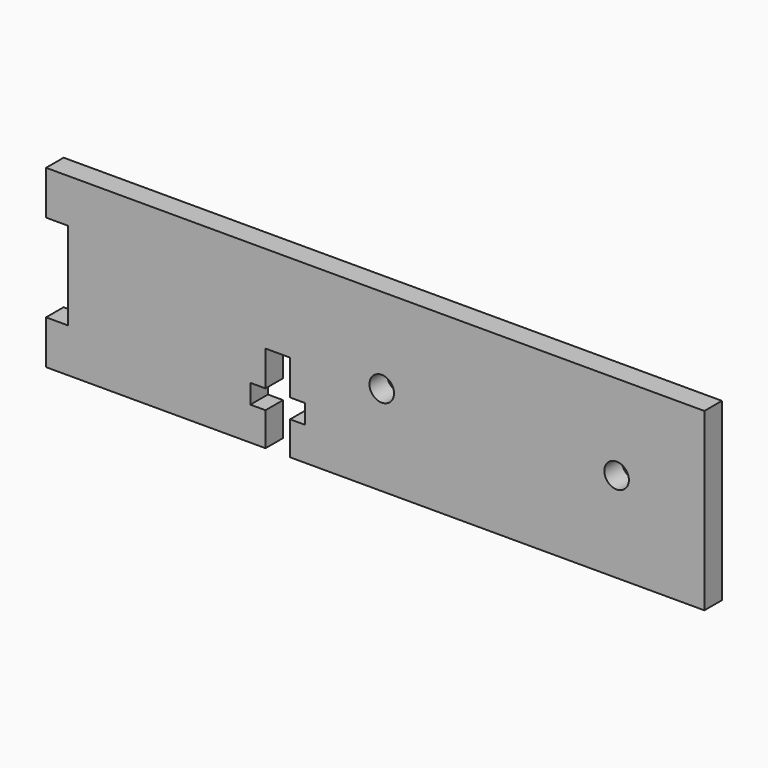
from build123d import *

# Parameters (mm, degrees)
F0_R     = 1.778
F1_DEPTH = 1.5875


with BuildPart() as f1:
    # F0 (on Front) → F1 (new body, symmetric)
    with BuildSketch(Plane.XZ):
        Polygon((50.350482, -7.217964), (-44.899518, -7.217964), (-44.899518, -13.567964), (-41.724518, -13.567964), (-41.724518, -26.267964), (-44.899518, -26.267964), (-44.899518, -32.617964), (-13.149518, -32.617964), (-13.149518, -27.776089), (-15.340268, -27.776089), (-15.340268, -24.997964), (-13.149518, -24.997964), (-13.149518, -19.917964), (-9.593518, -19.917964), (-9.593518, -24.997964), (-7.402768, -24.997964), (-7.402768, -27.776089), (-9.593518, -27.776089), (-9.593518, -32.617964), (50.350482, -32.617964), align=None)
        with Locations((3.668914, -19.569241)):
            Circle(F0_R, mode=Mode.SUBTRACT)
        with Locations((37.650482, -19.569241)):
            Circle(F0_R, mode=Mode.SUBTRACT)
    extrude(amount=F1_DEPTH, both=True)


solid = f1.part
